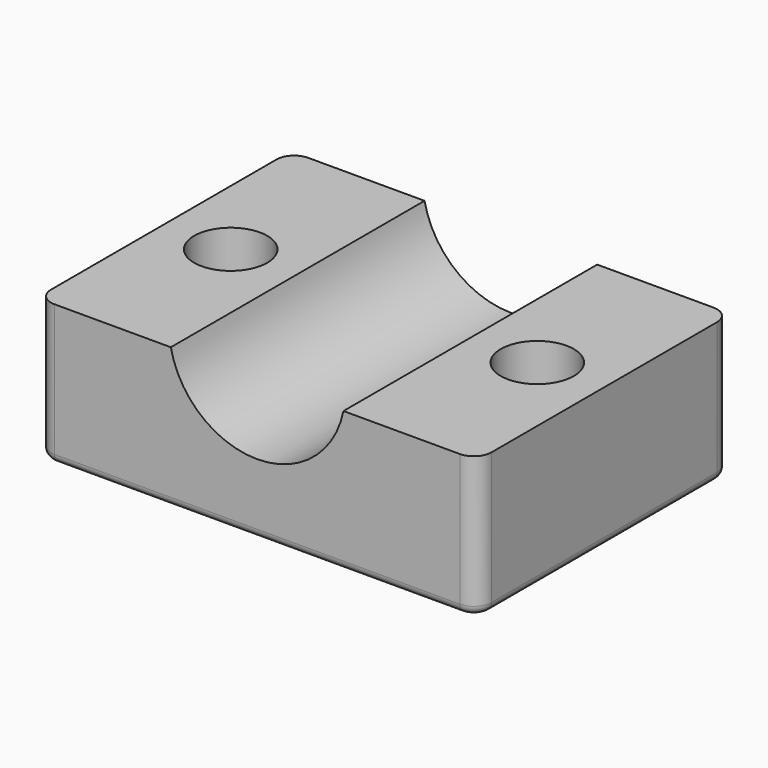
from build123d import *

# Parameters (mm, degrees)
F0_W     = 25
F0_H     = 18
F1_DEPTH = 8
F3_DEPTH = 25
F4_R     = 2.075
F5_R     = 2.075
F6_DEPTH = 25
F7_R     = 1
F8_R     = 0.5


with BuildPart() as f1:
    # F0 (on Top) → F1 (new body)
    with BuildSketch(Plane.XY):
        Rectangle(F0_W, F0_H)
    extrude(amount=F1_DEPTH)

    # F2 (on face) → F3 (cut)
    with BuildSketch(Plane.XZ.offset(9)):
        with BuildLine():
            Line((4.8989794856, 8), (-4.8989794856, 8))
            ThreePointArc((-4.8989794856, 8), (0, 4), (4.8989794856, 8))
        make_face()
    extrude(amount=-F3_DEPTH, mode=Mode.SUBTRACT)

    # F4 (on face) + F5 (on face) → F6 (cut)
    with BuildSketch(Plane.XY.offset(8)):
        with Locations((-8.6994897428, 0)):
            Circle(F4_R)
    with BuildSketch(Plane.XY.offset(8)):
        with Locations((8.6994897428, 0)):
            Circle(F5_R)
    extrude(amount=-F6_DEPTH, mode=Mode.SUBTRACT)

    # F7
    f7_edges = [f1.edges().sort_by_distance(p)[0] for p in [
        (-12.5, -9, 4),
        (12.5, -9, 4),
        (12.5, 9, 4),
        (-12.5, 9, 4),
    ]]
    fillet(f7_edges, radius=F7_R)

    # F8
    f8_edges = [f1.edges().sort_by_distance(p)[0] for p in [
        (-12.5, 0, 0),
    ]]
    fillet(f8_edges, radius=F8_R)


solid = f1.part
